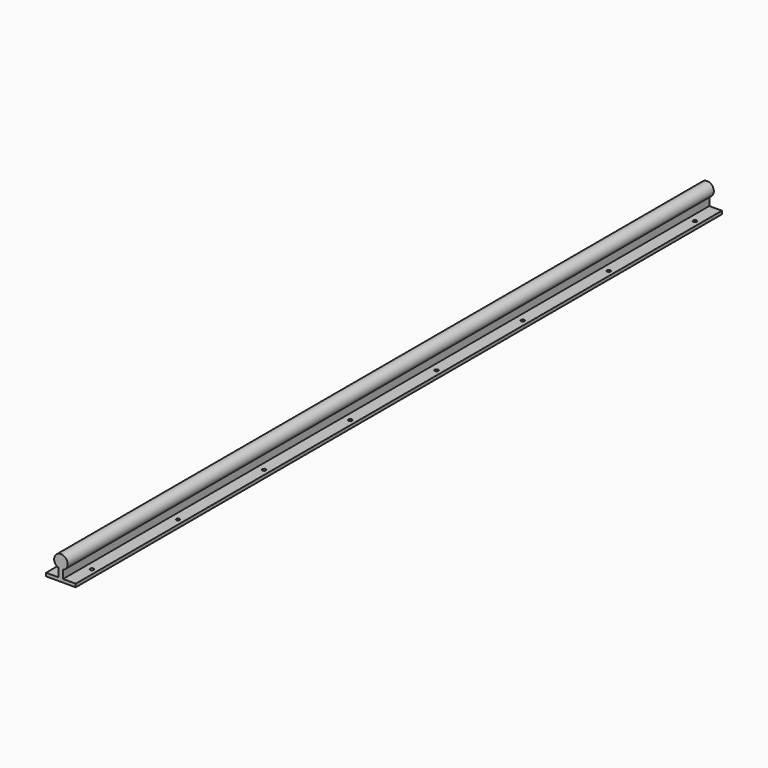
from build123d import *

# Parameters (mm, degrees)
F2_DEPTH = 1500
F1_R     = 3.3
F3_DEPTH = 3


with BuildPart() as f2:
    # F0 (on Front) → F2 (new body)
    with BuildSketch(Plane.XZ):
        with BuildLine():
            Line((27.5, -3), (27.5, 3))
            Line((27.5, 3), (4, 3))
            Line((4, 3), (4, 18.1572807177))
            ThreePointArc((4, 18.1572807177), (0, 42.5), (-4, 18.1572807177))
            Line((-4, 18.1572807177), (-4, 3))
            Line((-4, 3), (-27.5, 3))
            Line((-27.5, 3), (-27.5, -3))
            Line((-27.5, -3), (27.5, -3))
        make_face()
    extrude(amount=-F2_DEPTH)

    # F1 (on Top) → F3 (cut, symmetric)
    with BuildSketch(Plane.XY):
        with Locations((17.5, 50)):
            Circle(F1_R)
        with Locations((17.5, 250)):
            Circle(F1_R)
        with Locations((17.5, 1050)):
            Circle(F1_R)
        with Locations((17.5, 450)):
            Circle(F1_R)
        with Locations((17.5, 650)):
            Circle(F1_R)
        with Locations((17.5, 850)):
            Circle(F1_R)
        with Locations((17.5, 1250)):
            Circle(F1_R)
        with Locations((17.5, 1450)):
            Circle(F1_R)
        with Locations((-17.5, 50)):
            Circle(F1_R)
        with Locations((-17.5, 250)):
            Circle(F1_R)
        with Locations((-17.5, 450)):
            Circle(F1_R)
        with Locations((-17.5, 650)):
            Circle(F1_R)
        with Locations((-17.5, 850)):
            Circle(F1_R)
        with Locations((-17.5, 1450)):
            Circle(F1_R)
        with Locations((-17.5, 1250)):
            Circle(F1_R)
        with Locations((-17.5, 1050)):
            Circle(F1_R)
    extrude(amount=F3_DEPTH, both=True, mode=Mode.SUBTRACT)


solid = f2.part
